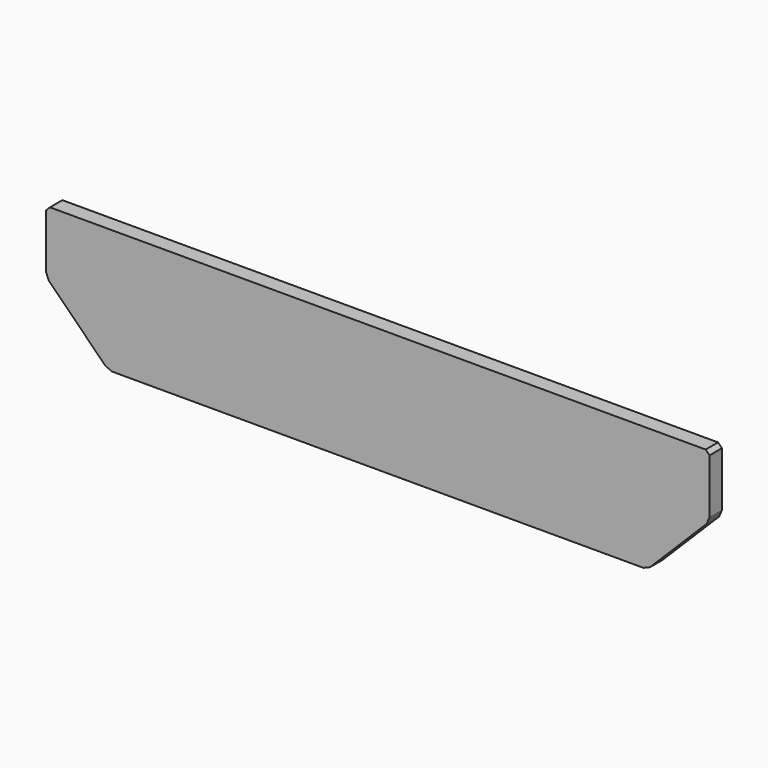
from build123d import *

# Parameters (mm, degrees)
SKETCH_W        = 770
SKETCH_H        = 144.4
PAD_DEPTH       = 9
CHAMFER_SIZE    = 72.2
CHAMFER001_SIZE = 4.5


with BuildPart() as part:
    # Sketch → Pad (new body, symmetric)
    with BuildSketch(Plane.XZ):
        with Locations((385, 687.8)):
            Rectangle(SKETCH_W, SKETCH_H)
    extrude(amount=PAD_DEPTH, both=True)

    # Chamfer
    chamfer_edges = [part.edges().sort_by_distance(p)[0] for p in [
        (770, 0, 615.6),
        (0, 0, 615.6),
    ]]
    chamfer(chamfer_edges, length=CHAMFER_SIZE)

    # Chamfer001
    chamfer001_edges = [part.edges().sort_by_distance(p)[0] for p in [
        (0, 0, 687.8),
        (0, 0, 760),
        (72.2, 0, 615.6),
        (697.8, 0, 615.6),
        (770, 0, 687.8),
        (770, 0, 760),
    ]]
    chamfer(chamfer001_edges, length=CHAMFER001_SIZE)


solid = part.part
